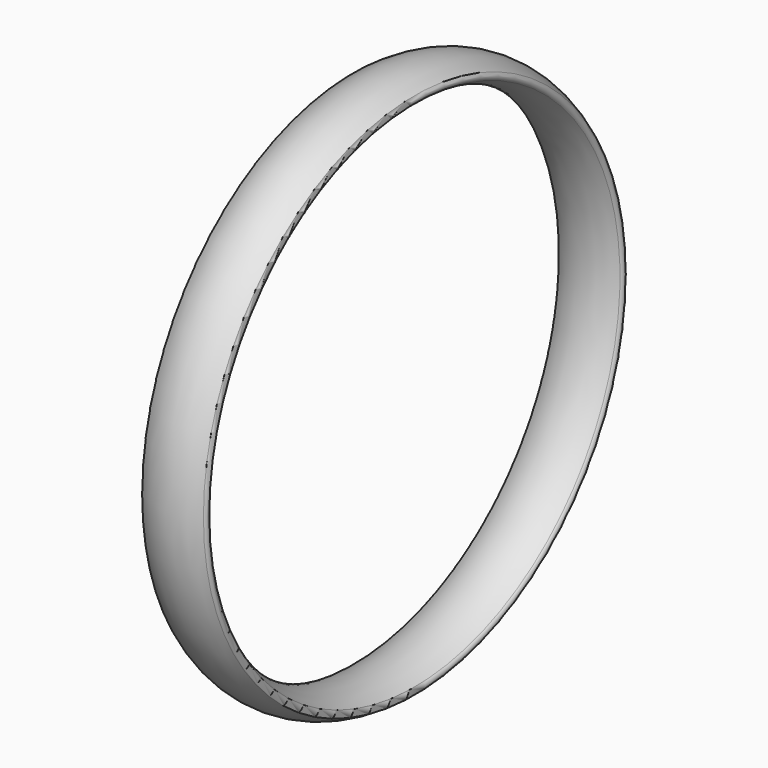
from build123d import *


with BuildPart() as part:
    # Sketch → Revolution (revolve)
    with BuildSketch(Plane.XY):
        with BuildLine():
            ThreePointArc((7.208461, -991.275413), (0, -1004.92), (7.208461, -1018.564587))
            ThreePointArc((7.208461, -1018.564587), (125, -1054.92), (242.791539, -1018.564587))
            ThreePointArc((242.791539, -1018.564587), (250, -1004.92), (242.791539, -991.275413))
            ThreePointArc((242.791539, -991.275413), (125, -954.92), (7.208461, -991.275413))
        make_face()
    revolve(axis=Axis((0, 0, 0), (1, 0, 0)))


solid = part.part
